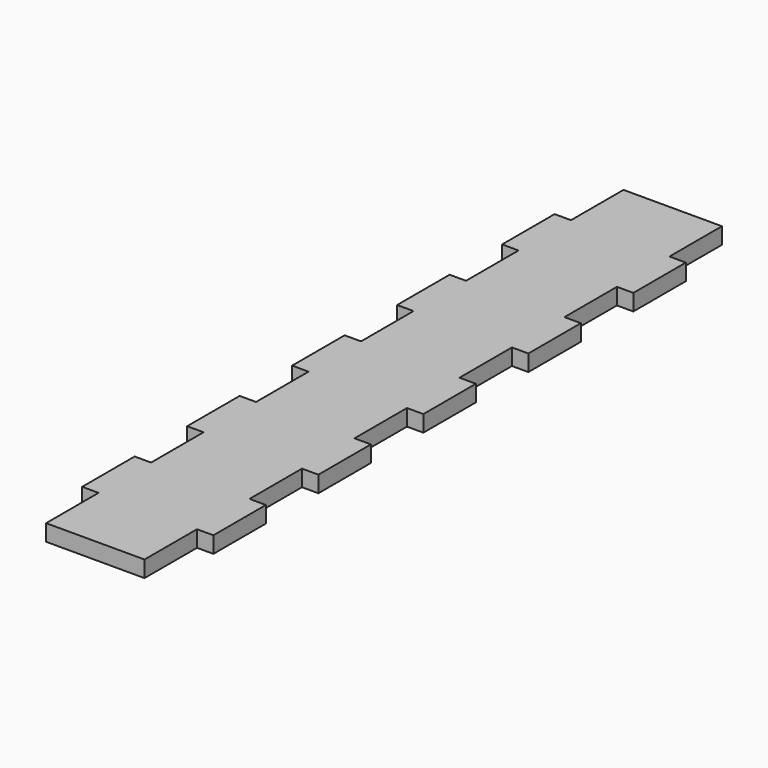
from build123d import *

# Parameters (mm, degrees)
F0_W     = 38.1
F0_H     = 279.4
F1_DEPTH = 6.35
F2_W     = 25.4
F2_H     = 6.35
F4_DEPTH = 6.35
F3_W     = 25.4
F3_H     = 6.35
F5_DEPTH = 6.35


with BuildPart() as f1:
    # F0 (on Top) → F1 (new body)
    with BuildSketch(Plane.XY):
        with Locations((19.05, 139.7)):
            Rectangle(F0_W, F0_H)
    extrude(amount=F1_DEPTH)

    # F2 (on face) → F4 (join)
    with BuildSketch(Plane.YZ.offset(38.1)):
        with Locations((241.3, 3.175)):
            Rectangle(F2_W, F2_H)
        with Locations((190.5, 3.175)):
            Rectangle(F2_W, F2_H)
        with Locations((139.7, 3.175)):
            Rectangle(F2_W, F2_H)
        with Locations((88.9, 3.175)):
            Rectangle(F2_W, F2_H)
        with Locations((38.1, 3.175)):
            Rectangle(F2_W, F2_H)
    extrude(amount=F4_DEPTH)

    # F3 (on face) → F5 (join)
    with BuildSketch(Plane(origin=(0, 0, 0), x_dir=(0, -1, 0), z_dir=(-1, 0, 0))):
        with Locations((-38.1, 3.175)):
            Rectangle(F3_W, F3_H)
        with Locations((-88.9, 3.175)):
            Rectangle(F3_W, F3_H)
        with Locations((-139.7, 3.175)):
            Rectangle(F3_W, F3_H)
        with Locations((-190.5, 3.175)):
            Rectangle(F3_W, F3_H)
        with Locations((-241.3, 3.175)):
            Rectangle(F3_W, F3_H)
    extrude(amount=F5_DEPTH)


solid = f1.part
